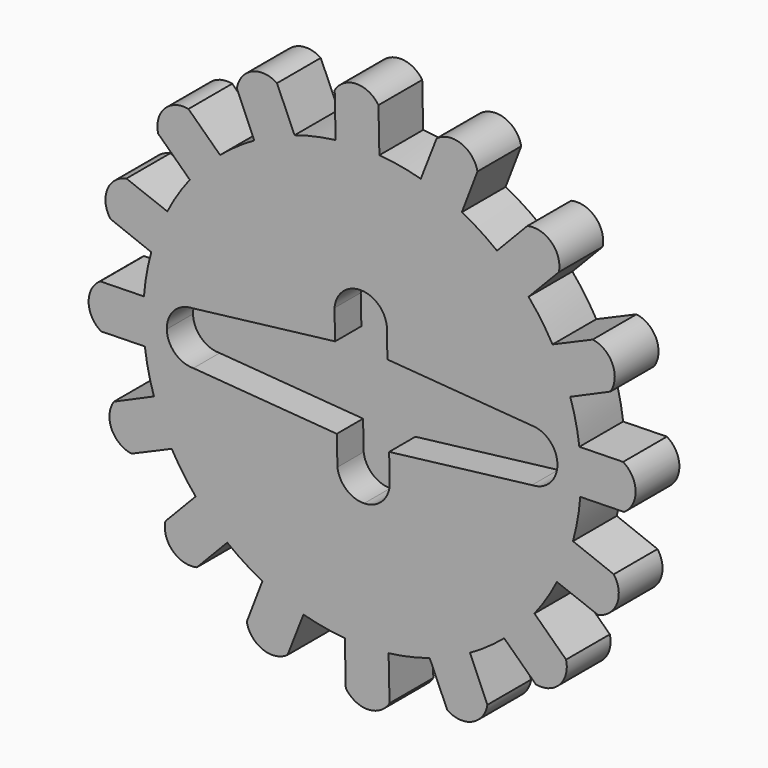
from build123d import *

# Parameters (mm, degrees)
EXTRUDE001_DEPTH                      = 3
EXTRUDE001_ONTO_SKETCH001_ROLL_ANGLE  = -90
EXTRUDE001_ONTO_SKETCH001_PITCH_ANGLE = -1.786809
EXTRUDE_DEPTH                         = 5
EXTRUDE_ONTO_SKETCH_ROLL_ANGLE        = -90
EXTRUDE_ONTO_SKETCH_PITCH_ANGLE       = -1.786809
CUT_PITCH_ANGLE                       = 3
CUT_PLACEMENT_ANGLE                   = 180


with BuildPart() as servo_horn_gap:
    # Sketch001 as drawn → Extrude001 (new)
    with BuildSketch(Plane.XY):
        with BuildLine():
            Line((-2.39133, 6.362213), (-2.39133, 3.691866))
            Line((-2.39133, 3.691866), (-15.4752, 2.398726))
            ThreePointArc((-15.4752, 2.398726), (-17.158439, 1.689111), (-17.85396, 0))
            ThreePointArc((-17.85396, 0), (-17.158439, -1.689111), (-15.4752, -2.398726))
            Line((-2.39133, -3.691866), (-15.4752, -2.398726))
            Line((-2.39133, -6.362213), (-2.39133, -3.691866))
            ThreePointArc((-2.39133, -6.362213), (-1.613755, -7.907248), (0, -8.529784))
            ThreePointArc((0, -8.529784), (1.613755, -7.907248), (2.39133, -6.362213))
            Line((2.39133, -6.362213), (2.39133, -3.691866))
            Line((2.39133, -3.691866), (15.4752, -2.398726))
            ThreePointArc((15.4752, -2.398726), (17.158439, -1.689111), (17.85396, 0))
            ThreePointArc((17.85396, 0), (17.158439, 1.689111), (15.4752, 2.398726))
            Line((2.39133, 3.691866), (15.4752, 2.398726))
            Line((2.39133, 6.362213), (2.39133, 3.691866))
            ThreePointArc((2.39133, 6.362213), (1.613755, 7.907248), (0, 8.529784))
            ThreePointArc((0, 8.529784), (-1.613755, 7.907248), (-2.39133, 6.362213))
        make_face()
    extrude(amount=EXTRUDE001_DEPTH)


with BuildPart() as servo_horn_gap_1:
    # Extrude001 onto Sketch001 roll: moved
    add(servo_horn_gap.part.rotate(Axis((0, 0, 0), (1, 0, 0)), EXTRUDE001_ONTO_SKETCH001_ROLL_ANGLE))


with BuildPart() as servo_horn_gap_2:
    # Extrude001 onto Sketch001 pitch: moved
    add(servo_horn_gap_1.part.rotate(Axis((0, 0, 0), (0, 1, 0)), EXTRUDE001_ONTO_SKETCH001_PITCH_ANGLE))


with BuildPart() as servo_horn_gap_3:
    # Extrude001 onto Sketch001 placement: moved
    add(servo_horn_gap_2.part.moved(Location((16.5, 34.45, -6.25))))


with BuildPart() as servo_gear_mount:
    # Sketch as drawn → Extrude (new)
    with BuildSketch(Plane.XY):
        with BuildLine():
            ThreePointArc((-5.767545, -19.150337), (-3.901806, -19.615706), (-2, -19.899749))
            Line((-2, -19.899749), (-2, -23.899749))
            ThreePointArc((-2, -23.899749), (0, -25), (2, -23.899749))
            Line((2, -19.899749), (2, -23.899749))
            ThreePointArc((2, -19.899749), (3.901806, -19.615706), (5.767545, -19.150337))
            Line((5.767545, -19.150337), (7.298279, -22.845856))
            ThreePointArc((7.298279, -22.845856), (9.568651, -23.096339), (10.994375, -21.311783))
            Line((9.487389, -17.606518), (10.994375, -21.311783))
            ThreePointArc((9.487389, -17.606518), (11.122885, -16.621715), (12.657034, -15.485461))
            Line((12.657034, -15.485461), (15.485461, -18.313888))
            ThreePointArc((15.485461, -18.313888), (17.67767, -17.67767), (18.313888, -15.485461))
            Line((15.485461, -12.657034), (18.313888, -15.485461))
            ThreePointArc((15.485461, -12.657034), (16.621715, -11.122885), (17.606518, -9.487389))
            Line((17.606518, -9.487389), (21.311783, -10.994375))
            ThreePointArc((21.311783, -10.994375), (23.096339, -9.568651), (22.845856, -7.298279))
            Line((19.150337, -5.767545), (22.845856, -7.298279))
            ThreePointArc((19.150337, -5.767545), (19.615706, -3.901806), (19.899749, -2))
            Line((19.899749, -2), (23.899749, -2))
            ThreePointArc((23.899749, -2), (25, 0), (23.899749, 2))
            Line((19.899749, 2), (23.899749, 2))
            ThreePointArc((19.899749, 2), (19.615706, 3.901806), (19.150337, 5.767545))
            Line((19.150337, 5.767545), (22.845856, 7.298279))
            ThreePointArc((22.845856, 7.298279), (23.096339, 9.568651), (21.311783, 10.994375))
            Line((17.606518, 9.487389), (21.311783, 10.994375))
            ThreePointArc((17.606518, 9.487389), (16.621715, 11.122885), (15.485461, 12.657034))
            Line((15.485461, 12.657034), (18.313888, 15.485461))
            ThreePointArc((18.313888, 15.485461), (17.67767, 17.67767), (15.485461, 18.313888))
            Line((12.657034, 15.485461), (15.485461, 18.313888))
            ThreePointArc((12.657034, 15.485461), (11.122885, 16.621715), (9.487389, 17.606518))
            Line((9.487389, 17.606518), (10.994375, 21.311783))
            ThreePointArc((10.994375, 21.311783), (9.568651, 23.096339), (7.298279, 22.845856))
            Line((5.767545, 19.150337), (7.298279, 22.845856))
            ThreePointArc((5.767545, 19.150337), (3.901806, 19.615706), (2, 19.899749))
            Line((2, 19.899749), (2, 23.899749))
            ThreePointArc((2, 23.899749), (0, 25), (-2, 23.899749))
            Line((-2, 19.899749), (-2, 23.899749))
            ThreePointArc((-2, 19.899749), (-3.90256, 19.615556), (-5.769017, 19.149894))
            Line((-5.769017, 19.149894), (-7.300035, 22.845294))
            ThreePointArc((-7.300035, 22.845294), (-9.570426, 23.095604), (-10.996013, 21.310938))
            Line((-9.488742, 17.605788), (-10.996013, 21.310938))
            ThreePointArc((-9.488742, 17.605788), (-11.123524, 16.621288), (-12.657034, 15.485461))
            Line((-12.657034, 15.485461), (-15.485461, 18.313888))
            ThreePointArc((-15.485461, 18.313888), (-17.67767, 17.67767), (-18.313888, 15.485461))
            Line((-15.485461, 12.657034), (-18.313888, 15.485461))
            ThreePointArc((-15.485461, 12.657034), (-16.621288, 11.123524), (-17.605788, 9.488742))
            Line((-17.605788, 9.488742), (-21.310938, 10.996013))
            ThreePointArc((-21.310938, 10.996013), (-23.095604, 9.570426), (-22.845294, 7.300035))
            Line((-19.149894, 5.769017), (-22.845294, 7.300035))
            ThreePointArc((-19.149894, 5.769017), (-19.615556, 3.90256), (-19.899749, 2))
            Line((-19.899749, 2), (-23.899749, 2))
            ThreePointArc((-23.899749, 2), (-25, 0), (-23.899749, -2))
            Line((-19.899749, -2), (-23.899749, -2))
            ThreePointArc((-19.899749, -2), (-19.615556, -3.90256), (-19.149894, -5.769017))
            Line((-19.149894, -5.769017), (-22.845294, -7.300035))
            ThreePointArc((-22.845294, -7.300035), (-23.095604, -9.570426), (-21.310938, -10.996013))
            Line((-17.605788, -9.488742), (-21.310938, -10.996013))
            ThreePointArc((-17.605788, -9.488742), (-16.621333, -11.123457), (-15.485563, -12.656909))
            Line((-15.485563, -12.656909), (-18.314013, -15.485313))
            ThreePointArc((-18.314013, -15.485313), (-17.677812, -17.677527), (-15.485608, -18.313763))
            Line((-12.657158, -15.485359), (-15.485608, -18.313763))
            ThreePointArc((-12.657158, -15.485359), (-11.122952, -16.621671), (-9.487389, -17.606518))
            Line((-9.487389, -17.606518), (-10.994375, -21.311783))
            ThreePointArc((-10.994375, -21.311783), (-9.568651, -23.096339), (-7.298279, -22.845856))
            Line((-5.767545, -19.150337), (-7.298279, -22.845856))
        make_face()
    extrude(amount=EXTRUDE_DEPTH)


with BuildPart() as servo_gear_mount_1:
    # Extrude onto Sketch roll: moved
    add(servo_gear_mount.part.rotate(Axis((0, 0, 0), (1, 0, 0)), EXTRUDE_ONTO_SKETCH_ROLL_ANGLE))


with BuildPart() as servo_gear_mount_2:
    # Extrude onto Sketch pitch: moved
    add(servo_gear_mount_1.part.rotate(Axis((0, 0, 0), (0, 1, 0)), EXTRUDE_ONTO_SKETCH_PITCH_ANGLE))


with BuildPart() as servo_gear_mount_3:
    # Extrude onto Sketch placement: moved
    add(servo_gear_mount_2.part.moved(Location((16.5, 34.45, -6.25))))


with BuildPart() as servo_gear_mount_4:
    # Extrude placement: moved
    add(servo_gear_mount_3.part.moved(Location((0, -2, 0))))

    # Cut: cut Servo Horn Gap
    add(servo_horn_gap_3.part, mode=Mode.SUBTRACT)


with BuildPart() as servo_gear_mount_5:
    # Cut pitch: moved
    add(servo_gear_mount_4.part.rotate(Axis((0, 0, 0), (0, 1, 0)), CUT_PITCH_ANGLE))


with BuildPart() as servo_gear_mount_6:
    # Cut placement: moved
    add(servo_gear_mount_5.part.moved(Location((32.750343, 68.75, 0.986916))).rotate(Axis((32.750343, 68.75, 0.986916), (0, 0, 1)), CUT_PLACEMENT_ANGLE))


solid = servo_gear_mount_6.part
